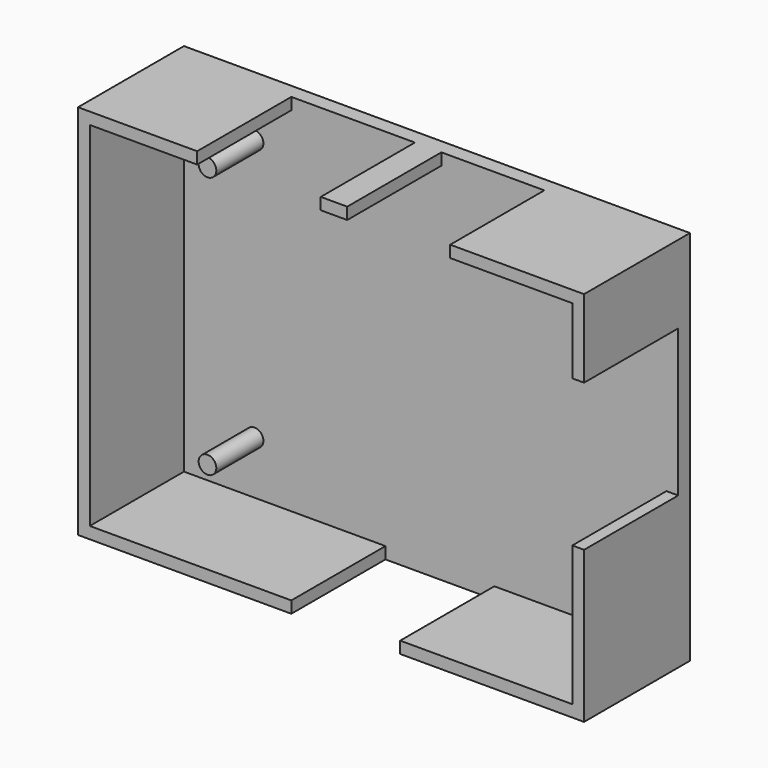
from build123d import *

# Parameters (mm, degrees)
F0_W     = 86
F0_H     = 64
F0_W_2   = 82
F0_H_2   = 60
F0_R     = 1.5
F1_DEPTH = 2.5
F2_DEPTH = 10
F3_DEPTH = 20
F4_W     = 20
F4_H     = 25
F5_DEPTH = 2
F6_W     = 18.5
F6_H     = 20
F7_DEPTH = 2
F8_W     = 21
F8_H     = 20
F8_W_2   = 17.5
F9_DEPTH = 2


with BuildPart() as f1:
    # F0 (on Front) → F1 (new body)
    with BuildSketch(Plane.XZ):
        Rectangle(F0_W, F0_H)
        Rectangle(F0_W_2, F0_H_2, mode=Mode.SUBTRACT)
        Rectangle(F0_W_2, F0_H_2)
        with Locations((-29, -21)):
            Circle(F0_R, mode=Mode.SUBTRACT)
        with Locations((34.5, -21)):
            Circle(F0_R, mode=Mode.SUBTRACT)
        with Locations((-29, 23.5)):
            Circle(F0_R, mode=Mode.SUBTRACT)
        with Locations((34.5, 23.5)):
            Circle(F0_R, mode=Mode.SUBTRACT)
        with Locations((-29, 23.5)):
            Circle(F0_R)
        with Locations((-29, -21)):
            Circle(F0_R)
        with Locations((34.5, -21)):
            Circle(F0_R)
        with Locations((34.5, 23.5)):
            Circle(F0_R)
    extrude(amount=-F1_DEPTH)

    # F0 (on Front) → F2 (join)
    with BuildSketch(Plane.XZ):
        with Locations((-29, 23.5)):
            Circle(F0_R)
        with Locations((-29, -21)):
            Circle(F0_R)
        with Locations((34.5, -21)):
            Circle(F0_R)
        with Locations((34.5, 23.5)):
            Circle(F0_R)
    extrude(amount=F2_DEPTH)

    # F0 (on Front) → F3 (join)
    with BuildSketch(Plane.XZ):
        Rectangle(F0_W, F0_H)
        Rectangle(F0_W_2, F0_H_2, mode=Mode.SUBTRACT)
    extrude(amount=F3_DEPTH)

    # F4 (on face) → F5 (cut)
    with BuildSketch(Plane.YZ.offset(43)):
        with Locations((-10, 6.25)):
            Rectangle(F4_W, F4_H)
    extrude(amount=-F5_DEPTH, mode=Mode.SUBTRACT)

    # F6 (on face) → F7 (cut)
    with BuildSketch(Plane(origin=(0, 0, -32), x_dir=(1, 0, 0), z_dir=(0, 0, -1))):
        with Locations((2.5, 10)):
            Rectangle(F6_W, F6_H)
    extrude(amount=-F7_DEPTH, mode=Mode.SUBTRACT)

    # F8 (on face) → F9 (cut)
    with BuildSketch(Plane.XY.offset(32)):
        with Locations((-12.25, -10)):
            Rectangle(F8_W, F8_H)
        with Locations((11.5, -10)):
            Rectangle(F8_W_2, F8_H)
    extrude(amount=-F9_DEPTH, mode=Mode.SUBTRACT)


solid = f1.part
